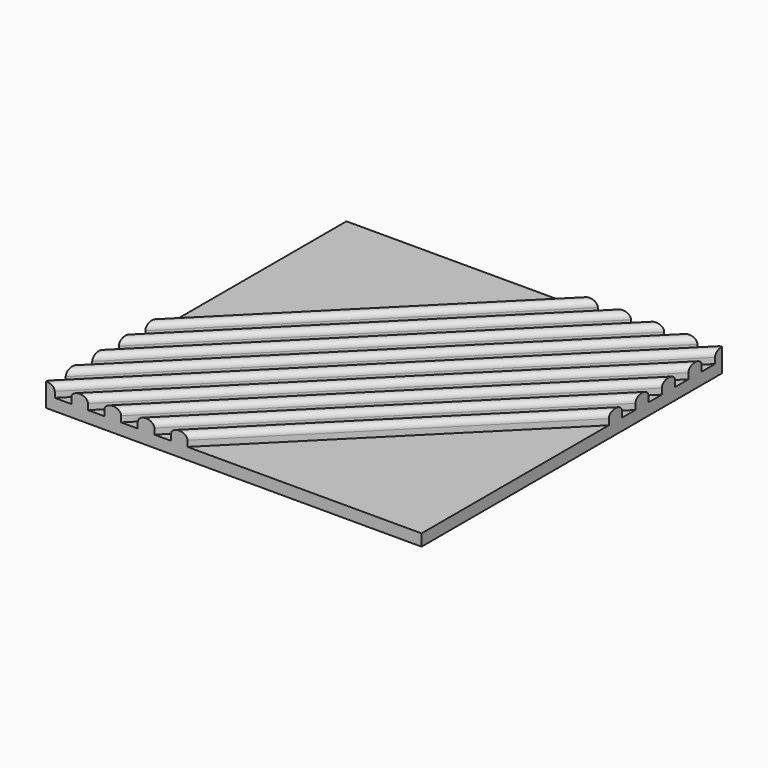
from build123d import *

# Parameters (mm, degrees)
F0_W      = 101.6
F0_H      = 101.6
F1_DEPTH  = 3.175
F5_DEPTH  = 50.8
F6_DEPTH  = 57.15
F7_DEPTH  = 63.5
F8_DEPTH  = 69.85
F9_DEPTH  = 76.2
F10_DEPTH = 69.85
F11_DEPTH = 63.5
F12_DEPTH = 57.15
F13_DEPTH = 50.8
F14_W     = 126.8053464592
F14_H     = 131.9155991077
F14_W_2   = 101.6
F14_H_2   = 101.6
F15_DEPTH = 12.7


with BuildPart() as f1:
    # F0 (on Top) → F1 (new body)
    with BuildSketch(Plane.XY):
        Rectangle(F0_W, F0_H)
    extrude(amount=F1_DEPTH)

    # F4 (on line) → F5 (join, symmetric)
    with BuildSketch(Plane(origin=(0, 0, 0), x_dir=(-0.7071067812, 0.7071067812, 0), z_dir=(0.7071067812, 0.7071067812, 0))):
        with BuildLine():
            Line((26.9160220652, 3.175), (26.9160220652, 4.7411556013))
            ThreePointArc((26.9160220652, 4.7411556013), (26.9160579383, 4.7518278006), (26.9160220652, 4.7625))
            ThreePointArc((26.9160220652, 4.7625), (25.3232218085, 6.3393188323), (23.7410579383, 4.7518278006))
            Line((23.7410579383, 4.7518278006), (23.7410579383, 3.175))
            Line((23.7410579383, 3.175), (26.9160220652, 3.175))
        make_face()
    extrude(amount=F5_DEPTH, both=True)

    # F4 (on line) → F6 (join, symmetric)
    with BuildSketch(Plane(origin=(0, 0, 0), x_dir=(-0.7071067812, 0.7071067812, 0), z_dir=(0.7071067812, 0.7071067812, 0))):
        with BuildLine():
            ThreePointArc((20.5660220652, 4.7625), (18.9732218085, 6.3393188323), (17.3910579383, 4.7518278006))
            Line((17.3910579383, 4.7518278006), (17.3910579383, 3.175))
            Line((17.3910579383, 3.175), (20.5660220652, 3.175))
            Line((20.5660220652, 3.175), (20.5660220652, 4.7411556013))
            Line((20.5660220652, 4.7411556013), (20.5660220652, 4.7625))
        make_face()
    extrude(amount=F6_DEPTH, both=True)

    # F4 (on line) → F7 (join, symmetric)
    with BuildSketch(Plane(origin=(0, 0, 0), x_dir=(-0.7071067812, 0.7071067812, 0), z_dir=(0.7071067812, 0.7071067812, 0))):
        with BuildLine():
            ThreePointArc((14.2160220652, 4.7625), (12.6232218085, 6.3393188323), (11.0410579383, 4.7518278006))
            Line((11.0410579383, 4.7518278006), (11.0410579383, 3.175))
            Line((11.0410579383, 3.175), (14.2160220652, 3.175))
            Line((14.2160220652, 3.175), (14.2160220652, 4.7411556013))
            Line((14.2160220652, 4.7411556013), (14.2160220652, 4.7625))
        make_face()
    extrude(amount=F7_DEPTH, both=True)

    # F4 (on line) → F8 (join, symmetric)
    with BuildSketch(Plane(origin=(0, 0, 0), x_dir=(-0.7071067812, 0.7071067812, 0), z_dir=(0.7071067812, 0.7071067812, 0))):
        with BuildLine():
            ThreePointArc((7.8660220652, 4.7625), (6.2732218085, 6.3393188323), (4.6910579383, 4.7518278006))
            Line((4.6910579383, 4.7518278006), (4.6910579383, 3.175))
            Line((4.6910579383, 3.175), (7.8660220652, 3.175))
            Line((7.8660220652, 3.175), (7.8660220652, 4.7411556013))
            Line((7.8660220652, 4.7411556013), (7.8660220652, 4.7625))
        make_face()
    extrude(amount=F8_DEPTH, both=True)

    # F4 (on line) → F9 (join, symmetric)
    with BuildSketch(Plane(origin=(0, 0, 0), x_dir=(-0.7071067812, 0.7071067812, 0), z_dir=(0.7071067812, 0.7071067812, 0))):
        with BuildLine():
            ThreePointArc((1.5160220652, 4.7625), (-0.0767781915, 6.3393188323), (-1.6589420617, 4.7518278006))
            Line((-1.6589420617, 4.7518278006), (-1.6589420617, 3.175))
            Line((-1.6589420617, 3.175), (1.5160220652, 3.175))
            Line((1.5160220652, 3.175), (1.5160220652, 4.7411556013))
            Line((1.5160220652, 4.7411556013), (1.5160220652, 4.7625))
        make_face()
    extrude(amount=F9_DEPTH, both=True)

    # F4 (on line) → F10 (join, symmetric)
    with BuildSketch(Plane(origin=(0, 0, 0), x_dir=(-0.7071067812, 0.7071067812, 0), z_dir=(0.7071067812, 0.7071067812, 0))):
        with BuildLine():
            ThreePointArc((-4.8339779348, 4.7625), (-6.4267781915, 6.3393188323), (-8.0089420617, 4.7518278006))
            Line((-8.0089420617, 4.7518278006), (-8.0089420617, 3.175))
            Line((-8.0089420617, 3.175), (-4.8339779348, 3.175))
            Line((-4.8339779348, 3.175), (-4.8339779348, 4.7411556013))
            Line((-4.8339779348, 4.7411556013), (-4.8339779348, 4.7625))
        make_face()
    extrude(amount=F10_DEPTH, both=True)

    # F4 (on line) → F11 (join, symmetric)
    with BuildSketch(Plane(origin=(0, 0, 0), x_dir=(-0.7071067812, 0.7071067812, 0), z_dir=(0.7071067812, 0.7071067812, 0))):
        with BuildLine():
            ThreePointArc((-11.1839779348, 4.7625), (-12.7767781915, 6.3393188323), (-14.3589420617, 4.7518278006))
            Line((-14.3589420617, 4.7518278006), (-14.3589420617, 3.175))
            Line((-14.3589420617, 3.175), (-11.1839779348, 3.175))
            Line((-11.1839779348, 3.175), (-11.1839779348, 4.7411556013))
            Line((-11.1839779348, 4.7411556013), (-11.1839779348, 4.7625))
        make_face()
    extrude(amount=F11_DEPTH, both=True)

    # F4 (on line) → F12 (join, symmetric)
    with BuildSketch(Plane(origin=(0, 0, 0), x_dir=(-0.7071067812, 0.7071067812, 0), z_dir=(0.7071067812, 0.7071067812, 0))):
        with BuildLine():
            ThreePointArc((-17.5339779348, 4.7625), (-19.1267781915, 6.3393188323), (-20.7089420617, 4.7518278006))
            Line((-20.7089420617, 4.7518278006), (-20.7089420617, 3.175))
            Line((-20.7089420617, 3.175), (-17.5339779348, 3.175))
            Line((-17.5339779348, 3.175), (-17.5339779348, 4.7411556013))
            Line((-17.5339779348, 4.7411556013), (-17.5339779348, 4.7625))
        make_face()
    extrude(amount=F12_DEPTH, both=True)

    # F4 (on line) → F13 (join, symmetric)
    with BuildSketch(Plane(origin=(0, 0, 0), x_dir=(-0.7071067812, 0.7071067812, 0), z_dir=(0.7071067812, 0.7071067812, 0))):
        with BuildLine():
            ThreePointArc((-23.8839779348, 4.7625), (-25.4767781915, 6.3393188323), (-27.0589420617, 4.7518278006))
            Line((-27.0589420617, 4.7518278006), (-27.0589420617, 3.175))
            Line((-27.0589420617, 3.175), (-23.8839779348, 3.175))
            Line((-23.8839779348, 3.175), (-23.8839779348, 4.7411556013))
            Line((-23.8839779348, 4.7411556013), (-23.8839779348, 4.7625))
        make_face()
    extrude(amount=F13_DEPTH, both=True)

    # F14 (on Top) → F15 (cut)
    with BuildSketch(Plane.XY):
        with Locations((0.9669456631, -0.0485852361)):
            Rectangle(F14_W, F14_H)
        Rectangle(F14_W_2, F14_H_2, mode=Mode.SUBTRACT)
    extrude(amount=F15_DEPTH, mode=Mode.SUBTRACT)


solid = f1.part
